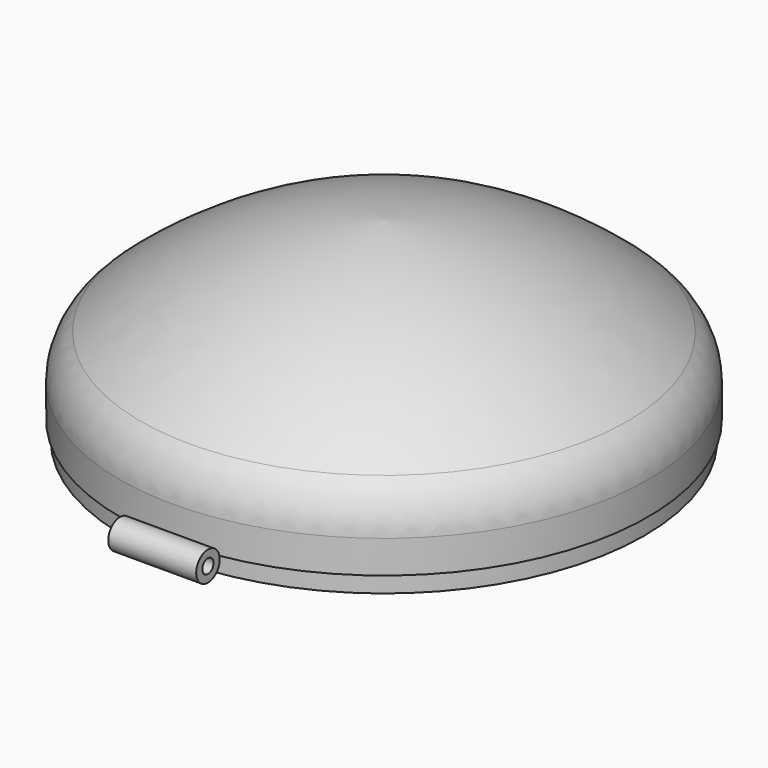
from build123d import *

# Parameters (mm, degrees)
F2_R          = 50
F3_T          = -3
F4_R          = 222
F5_DEPTH      = 15
F5_TAPER      = 10
F5_DEPTH_BACK = 15
F6_T          = -3
F7_R          = 12.5
F7_R_2        = 6
F8_DEPTH      = 37.5


with BuildPart() as f1:
    # F0 (on Front) → F1 (revolve)
    with BuildSketch(Plane.XZ):
        with BuildLine():
            Line((0, 0), (0, 150))
            ThreePointArc((0, 150), (-121.4097716945, 120.0469863126), (-225, 50))
            Line((-225, 50), (-225, 0))
            Line((-225, 0), (0, 0))
        make_face()
    revolve(axis=Axis((0, 0, 75), (0, 0, 1)))

    # F2
    f2_edges = [f1.edges().sort_by_distance(p)[0] for p in [
        (225, 0, 50),
    ]]
    fillet(f2_edges, radius=F2_R)

    # F3
    f3_openings = [f1.faces().sort_by_distance(p)[0] for p in [
        (0, 0, 0),
    ]]
    offset(amount=F3_T, openings=f3_openings)


with BuildPart() as f5:
    # F4 (on face) → F5 (new body, two sides)
    with BuildSketch(Plane(origin=(0, 0, 0), x_dir=(1, 0, 0), z_dir=(0, 0, -1))) as f5_sk:
        Circle(F4_R)
    extrude(amount=-F5_DEPTH, taper=F5_TAPER)
    extrude(f5_sk.sketch, amount=F5_DEPTH_BACK)

    # F6
    f6_openings = [f5.faces().sort_by_distance(p)[0] for p in [
        (0, 0, 15),
    ]]
    offset(amount=F6_T, openings=f6_openings, kind=Kind.INTERSECTION)


with BuildPart() as f8:
    # F7 (on Right) → F8 (new body, symmetric)
    with BuildSketch(Plane.YZ):
        with Locations((-234.5, -2.5)):
            Circle(F7_R)
        with Locations((-234.5, -2.5)):
            Circle(F7_R_2, mode=Mode.SUBTRACT)
    extrude(amount=F8_DEPTH, both=True)


solid = Compound([f1.part, f5.part, f8.part])
